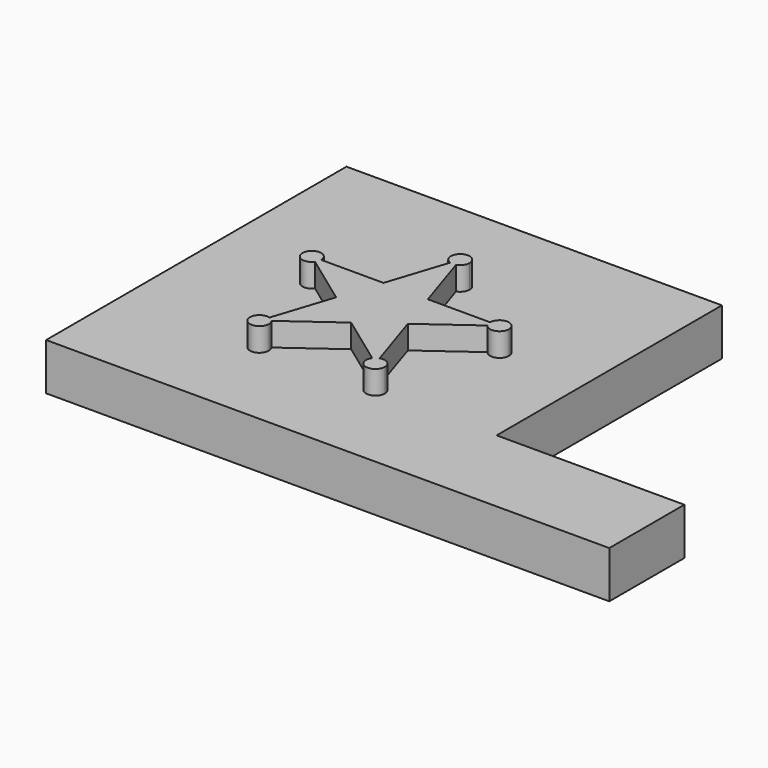
from build123d import *

# Parameters (mm, degrees)
F1_DEPTH = 19.05
F2_DEPTH = 12.7


with BuildPart() as f1:
    # F0 (on Top) → F1 (new body)
    with BuildSketch(Plane.XY):
        with BuildLine():
            Line((46.972155931, 55.4228127003), (30.1082825595, 55.4228127003))
            ThreePointArc((30.1082825595, 55.4228127003), (29.9839661109, 54.6379095346), (29.6231857252, 53.9298381594))
            Line((29.6231857252, 53.9298381594), (43.2663458738, 44.0175020952))
            Line((43.2663458738, 44.0175020952), (46.972155931, 55.4228127003))
        make_face()
        Polygon((58.964409188, 55.4228127003), (46.972155931, 55.4228127003), (43.2663458738, 44.0175020952), (52.9682825595, 36.9686324889), (62.6702192453, 44.0175020952), align=None)
        with BuildLine():
            Line((52.9682825595, 36.9686324889), (43.2663458738, 44.0175020952))
            Line((43.2663458738, 44.0175020952), (38.055122411, 27.9790054352))
            ThreePointArc((38.055122411, 27.9790054352), (38.7631937861, 27.6182250495), (39.325122411, 27.0562964246))
            Line((39.325122411, 27.0562964246), (52.9682825595, 36.9686324889))
        make_face()
        with BuildLine():
            Line((62.6702192453, 44.0175020952), (52.9682825595, 36.9686324889))
            Line((52.9682825595, 36.9686324889), (66.611442708, 27.0562964246))
            ThreePointArc((66.611442708, 27.0562964246), (67.1733713329, 27.6182250495), (67.881442708, 27.9790054352))
            Line((67.881442708, 27.9790054352), (62.6702192453, 44.0175020952))
        make_face()
        with BuildLine():
            Line((75.8282825595, 55.4228127003), (58.964409188, 55.4228127003))
            Line((58.964409188, 55.4228127003), (62.6702192453, 44.0175020952))
            Line((62.6702192453, 44.0175020952), (76.3133793938, 53.9298381594))
            ThreePointArc((76.3133793938, 53.9298381594), (75.9525990081, 54.6379095346), (75.8282825595, 55.4228127003))
        make_face()
        with BuildLine():
            Line((52.1833793938, 71.4613093602), (46.972155931, 55.4228127003))
            Line((46.972155931, 55.4228127003), (58.964409188, 55.4228127003))
            Line((58.964409188, 55.4228127003), (53.7531857252, 71.4613093602))
            ThreePointArc((53.7531857252, 71.4613093602), (52.9682825595, 71.3369929116), (52.1833793938, 71.4613093602))
        make_face()
        with BuildLine():
            ThreePointArc((55.5082825595, 73.8769929116), (51.4753080187, 75.9318960773), (52.1833793938, 71.4613093602))
            Line((52.1833793938, 71.4613093602), (52.9682825595, 73.8769929116))
            Line((52.9682825595, 73.8769929116), (53.7531857252, 71.4613093602))
            ThreePointArc((53.7531857252, 71.4613093602), (55.0231857252, 72.3840183708), (55.5082825595, 73.8769929116))
        make_face()
        with BuildLine():
            Line((29.6231857252, 53.9298381594), (27.5682825595, 55.4228127003))
            Line((27.5682825595, 55.4228127003), (30.1082825595, 55.4228127003))
            ThreePointArc((30.1082825595, 55.4228127003), (25.1525990081, 56.207715866), (29.6231857252, 53.9298381594))
        make_face()
        with BuildLine():
            Line((30.1082825595, 55.4228127003), (27.5682825595, 55.4228127003))
            Line((27.5682825595, 55.4228127003), (29.6231857252, 53.9298381594))
            ThreePointArc((29.6231857252, 53.9298381594), (29.9839661109, 54.6379095346), (30.1082825595, 55.4228127003))
        make_face()
        with BuildLine():
            Line((52.9682825595, 73.8769929116), (52.1833793938, 71.4613093602))
            ThreePointArc((52.1833793938, 71.4613093602), (52.9682825595, 71.3369929116), (53.7531857252, 71.4613093602))
            Line((53.7531857252, 71.4613093602), (52.9682825595, 73.8769929116))
        make_face()
        with BuildLine():
            Line((78.3682825595, 55.4228127003), (75.8282825595, 55.4228127003))
            ThreePointArc((75.8282825595, 55.4228127003), (75.9525990081, 54.6379095346), (76.3133793938, 53.9298381594))
            Line((76.3133793938, 53.9298381594), (78.3682825595, 55.4228127003))
        make_face()
        with BuildLine():
            ThreePointArc((80.9082825595, 55.4228127003), (78.3682825595, 57.9628127003), (75.8282825595, 55.4228127003))
            Line((75.8282825595, 55.4228127003), (78.3682825595, 55.4228127003))
            Line((78.3682825595, 55.4228127003), (76.3133793938, 53.9298381594))
            ThreePointArc((76.3133793938, 53.9298381594), (79.1531857252, 53.0071291489), (80.9082825595, 55.4228127003))
        make_face()
        with BuildLine():
            ThreePointArc((67.881442708, 27.9790054352), (67.1733713329, 27.6182250495), (66.611442708, 27.0562964246))
            Line((66.611442708, 27.0562964246), (68.6663458738, 25.5633218838))
            Line((68.6663458738, 25.5633218838), (67.881442708, 27.9790054352))
        make_face()
        with BuildLine():
            Line((68.6663458738, 25.5633218838), (66.611442708, 27.0562964246))
            ThreePointArc((66.611442708, 27.0562964246), (67.881442708, 23.1476383324), (71.2063458738, 25.5633218838))
            ThreePointArc((71.2063458738, 25.5633218838), (70.1593204146, 27.6182250495), (67.881442708, 27.9790054352))
            Line((67.881442708, 27.9790054352), (68.6663458738, 25.5633218838))
        make_face()
        with BuildLine():
            ThreePointArc((39.325122411, 27.0562964246), (38.7631937861, 27.6182250495), (38.055122411, 27.9790054352))
            Line((38.055122411, 27.9790054352), (37.2702192453, 25.5633218838))
            Line((37.2702192453, 25.5633218838), (39.325122411, 27.0562964246))
        make_face()
        with BuildLine():
            Line((37.2702192453, 25.5633218838), (38.055122411, 27.9790054352))
            ThreePointArc((38.055122411, 27.9790054352), (35.2153160796, 24.070347343), (39.8102192453, 25.5633218838))
            ThreePointArc((39.8102192453, 25.5633218838), (39.6859027967, 26.3482250495), (39.325122411, 27.0562964246))
            Line((39.325122411, 27.0562964246), (37.2702192453, 25.5633218838))
        make_face()
    extrude(amount=F1_DEPTH)

    # F0 (on Top) → F2 (join)
    with BuildSketch(Plane.XY):
        Polygon((0, 76.2), (0, 0), (152.4, 0), (152.4, 25.4), (101.6, 25.4), (101.6, 101.6), (76.2, 101.6), (0, 101.6), align=None)
        with BuildLine():
            ThreePointArc((29.6231857252, 53.9298381594), (25.1525990081, 56.207715866), (30.1082825595, 55.4228127003))
            Line((30.1082825595, 55.4228127003), (46.972155931, 55.4228127003))
            Line((46.972155931, 55.4228127003), (52.1833793938, 71.4613093602))
            ThreePointArc((52.1833793938, 71.4613093602), (51.4753080187, 75.9318960773), (55.5082825595, 73.8769929116))
            ThreePointArc((55.5082825595, 73.8769929116), (55.0231857252, 72.3840183708), (53.7531857252, 71.4613093602))
            Line((53.7531857252, 71.4613093602), (58.964409188, 55.4228127003))
            Line((58.964409188, 55.4228127003), (75.8282825595, 55.4228127003))
            ThreePointArc((75.8282825595, 55.4228127003), (78.3682825595, 57.9628127003), (80.9082825595, 55.4228127003))
            ThreePointArc((80.9082825595, 55.4228127003), (79.1531857252, 53.0071291489), (76.3133793938, 53.9298381594))
            Line((76.3133793938, 53.9298381594), (62.6702192453, 44.0175020952))
            Line((62.6702192453, 44.0175020952), (67.881442708, 27.9790054352))
            ThreePointArc((67.881442708, 27.9790054352), (70.1593204146, 27.6182250495), (71.2063458738, 25.5633218838))
            ThreePointArc((71.2063458738, 25.5633218838), (67.881442708, 23.1476383324), (66.611442708, 27.0562964246))
            Line((66.611442708, 27.0562964246), (52.9682825595, 36.9686324889))
            Line((52.9682825595, 36.9686324889), (39.325122411, 27.0562964246))
            ThreePointArc((39.325122411, 27.0562964246), (39.6859027967, 26.3482250495), (39.8102192453, 25.5633218838))
            ThreePointArc((39.8102192453, 25.5633218838), (35.2153160796, 24.070347343), (38.055122411, 27.9790054352))
            Line((38.055122411, 27.9790054352), (43.2663458738, 44.0175020952))
            Line((43.2663458738, 44.0175020952), (29.6231857252, 53.9298381594))
        make_face(mode=Mode.SUBTRACT)
    extrude(amount=F2_DEPTH)


solid = f1.part
